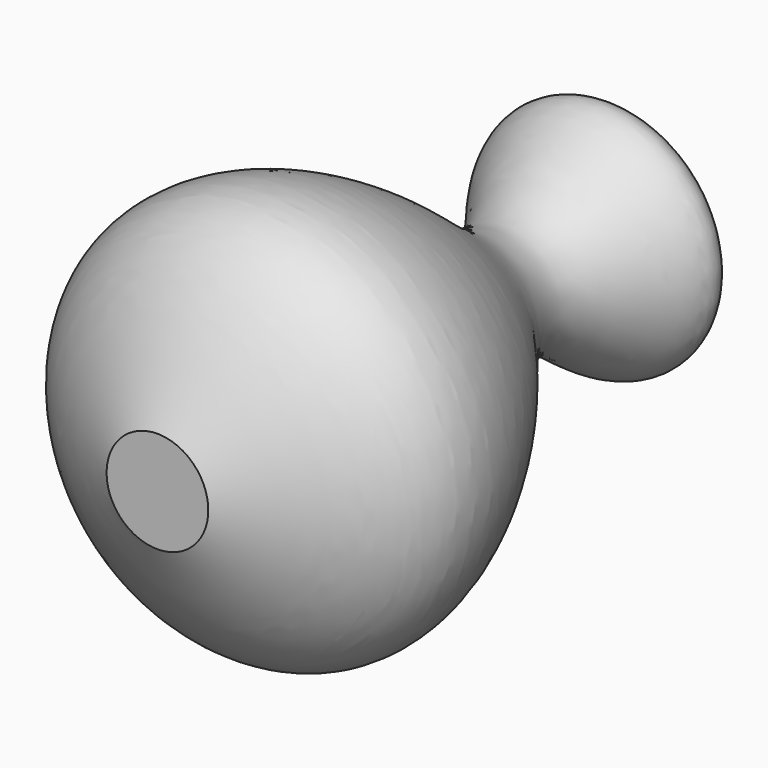
from build123d import *


with BuildPart() as f1:
    # F0 (on Top) → F1 (revolve)
    with BuildSketch(Plane.XY):
        with BuildLine():
            add(Edge.make_bspline(
                [(-8.466671773, -25.5986542061), (-19.4525131403, -20.0481819399), (-41.9387514679, -8.6857885087), (-23.689533096, 27.1264651973), (-1.7351231687, 46.9884089085), (-29.0766763484, 68.6612407269), (-9.2757520087, 73.3837942832), (0, 76.0013457939)],
                knots=[0, 0, 0, 0, 0.219524501, 0.4453397386, 0.6408323735, 0.8170691796, 1, 1, 1, 1], degree=3))
            Line((-8.466671773, -25.5986542061), (0, -25.5986542061))
            Line((0, -25.5986542061), (0, 76.0013457939))
        make_face()
    revolve(axis=Axis((0, 25.2013457939, 0), (0, 1, 0)))


solid = f1.part
